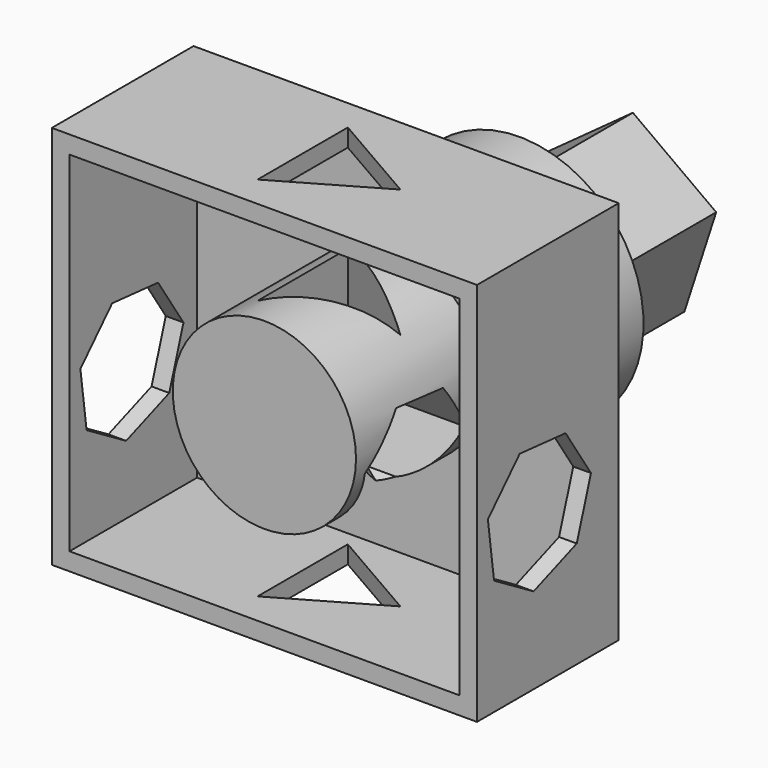
from build123d import *

# Parameters (mm, degrees)
F0_W      = 76.2
F0_H      = 68.939676
F10_DEPTH = 31.75
F1_T      = -3.175
F2_R      = 22.225
F3_DEPTH  = 25.4
F5_DEPTH  = 25.4
F11_R     = 16.418379
F6_DEPTH  = 28.575
F8_DEPTH  = 76.201
F12_DEPTH = 68.940675


with BuildPart() as f10:
    # F0 (on Front) → F10 (new body)
    with BuildSketch(Plane.XZ):
        Rectangle(F0_W, F0_H)
    extrude(amount=F10_DEPTH)

    # F1
    f1_openings = [f10.faces().sort_by_distance(p)[0] for p in [
        (0, -31.75, 0),
    ]]
    offset(amount=F1_T, openings=f1_openings)

    # F2 (on face) → F3 (join)
    with BuildSketch(Plane(origin=(0, 0, 0), x_dir=(-1, 0, 0), z_dir=(0, 1, 0))):
        Circle(F2_R)
    extrude(amount=F3_DEPTH)

    # F4 (on face) → F5 (join)
    with BuildSketch(Plane(origin=(0, 25.4, 0), x_dir=(-1, 0, 0), z_dir=(0, 1, 0))):
        Polygon((-9.22709, -12.7), (9.22709, -12.7), (14.929745, 4.850968), (0, 15.698063), (-14.929745, 4.850968), align=None)
    extrude(amount=F5_DEPTH)

    # F11 (on face) → F6 (join, through all)
    with BuildSketch(Plane.XZ.offset(3.175)):
        Circle(F11_R)
    extrude(amount=F6_DEPTH)

    # F7 (on face) → F8 (cut, through all)
    with BuildSketch(Plane.YZ.offset(38.1)):
        Polygon((-27.926964, -13.740439), (-19.06612, -19.032735), (-9.40379, -15.40474), (-6.215907, -5.588409), (-11.903011, 3.024361), (-22.182597, 3.947978), (-29.313927, -3.51306), align=None)
    extrude(amount=-F8_DEPTH, mode=Mode.SUBTRACT)

    # F9 (on face) → F12 (cut, through all)
    with BuildSketch(Plane.XY.offset(34.469838)):
        Polygon((-5.835976, -5.766792), (-5.835976, -25.983208), (11.671953, -15.875), align=None)
    extrude(amount=-F12_DEPTH, mode=Mode.SUBTRACT)


solid = f10.part
